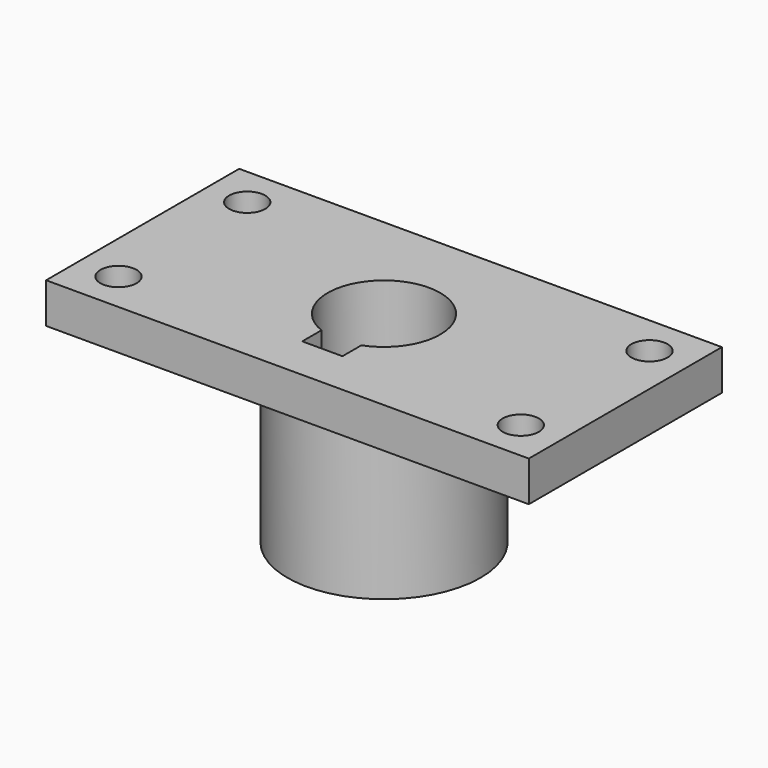
from build123d import *

# Parameters (mm, degrees)
F0_W     = 60
F0_H     = 30
F0_R     = 2
F0_R_2   = 12
F1_DEPTH = 25
F2_D     = 4.5
F3_DEPTH = 20


with BuildPart() as f1:
    # F0 (on Top) → F1 (new body)
    with BuildSketch(Plane.XY):
        with Locations((0, 0.1760203019)):
            Rectangle(F0_W, F0_H)
        with Locations((-25, -9.8239796981)):
            Circle(F0_R, mode=Mode.SUBTRACT)
        with Locations((25, -9.8239796981)):
            Circle(F0_R, mode=Mode.SUBTRACT)
        with Locations((0, 0.1760203019)):
            Circle(F0_R_2, mode=Mode.SUBTRACT)
        with Locations((-25, 10.1760203019)):
            Circle(F0_R, mode=Mode.SUBTRACT)
        with Locations((25, 10.1760203019)):
            Circle(F0_R, mode=Mode.SUBTRACT)
        with Locations((0, 0.1760203019)):
            Circle(F0_R_2)
        with BuildLine():
            ThreePointArc((-2.5620431112, -6.3382666964), (0.0664242114, 7.1757051394), (2.4379568888, -6.385714698))
            Line((2.4379568888, -6.385714698), (2.4379568888, -9.3239796981))
            Line((2.4379568888, -9.3239796981), (-2.5620431112, -9.3239796981))
            Line((-2.5620431112, -9.3239796981), (-2.5620431112, -6.3382666964))
        make_face(mode=Mode.SUBTRACT)
    extrude(amount=F1_DEPTH)

    # F2 (through all)
    with Locations(Plane(origin=(0, 0, 0), x_dir=(1, 0, 0), z_dir=(0, 0, -1))):
        with Locations((-25, 9.8239796981), (-25, -10.1760203019), (25, -10.1760203019), (25, 9.8239796981)):
            Hole(F2_D / 2)

    # F0 (on Top) → F3 (cut)
    with BuildSketch(Plane.XY):
        with Locations((0, 0.1760203019)):
            Rectangle(F0_W, F0_H)
        with Locations((-25, -9.8239796981)):
            Circle(F0_R, mode=Mode.SUBTRACT)
        with Locations((25, -9.8239796981)):
            Circle(F0_R, mode=Mode.SUBTRACT)
        with Locations((0, 0.1760203019)):
            Circle(F0_R_2, mode=Mode.SUBTRACT)
        with Locations((-25, 10.1760203019)):
            Circle(F0_R, mode=Mode.SUBTRACT)
        with Locations((25, 10.1760203019)):
            Circle(F0_R, mode=Mode.SUBTRACT)
    extrude(amount=F3_DEPTH, mode=Mode.SUBTRACT)


solid = f1.part
